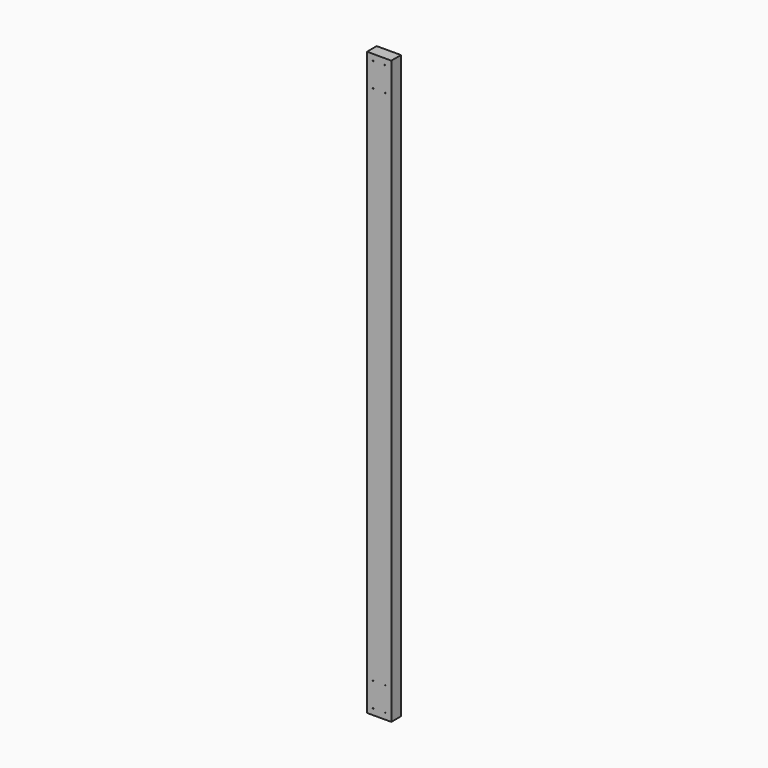
from build123d import *

# Parameters (mm, degrees)
F0_W     = 101.6
F0_H     = 2438.4
F0_R     = 1.5875
F1_DEPTH = 50.8


with BuildPart() as f1:
    # F0 (on Front) → F1 (new body)
    with BuildSketch(Plane.XZ):
        with Locations((-286.027658, 72.996445)):
            Rectangle(F0_W, F0_H)
        with Locations((-311.427658, -1120.803555)):
            Circle(F0_R, mode=Mode.SUBTRACT)
        with Locations((-311.427658, -1019.203555)):
            Circle(F0_R, mode=Mode.SUBTRACT)
        with Locations((-260.627658, -1120.803555)):
            Circle(F0_R, mode=Mode.SUBTRACT)
        with Locations((-260.627658, -1019.203555)):
            Circle(F0_R, mode=Mode.SUBTRACT)
        with Locations((-311.427658, 1165.196445)):
            Circle(F0_R, mode=Mode.SUBTRACT)
        with Locations((-311.427658, 1266.796445)):
            Circle(F0_R, mode=Mode.SUBTRACT)
        with Locations((-260.627658, 1165.196445)):
            Circle(F0_R, mode=Mode.SUBTRACT)
        with Locations((-262.215158, 1266.796445)):
            Circle(F0_R, mode=Mode.SUBTRACT)
    extrude(amount=F1_DEPTH)


solid = f1.part
